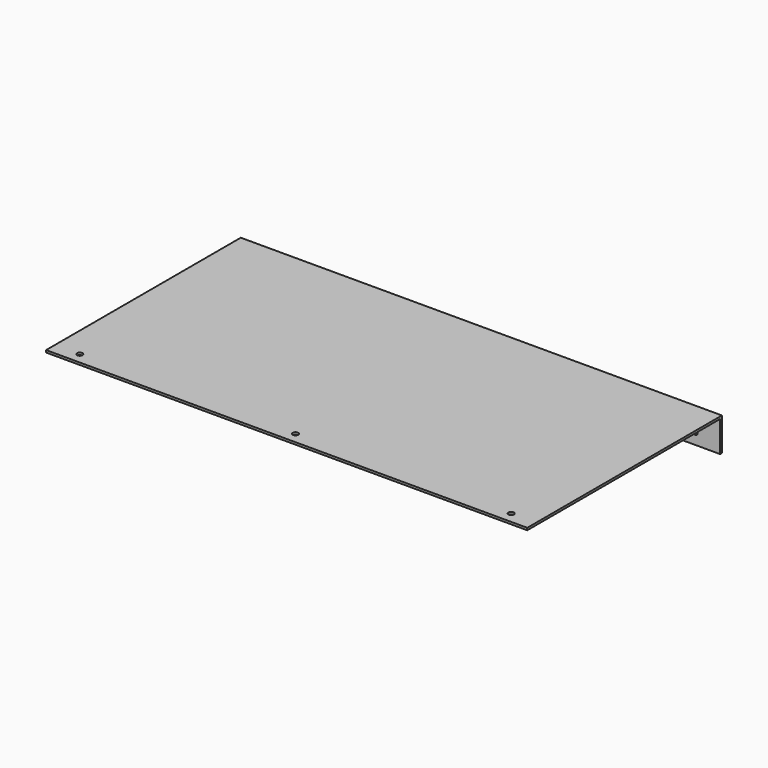
from build123d import *

# Parameters (mm, degrees)
F0_W     = 552.45
F0_H     = 279.4
F1_DEPTH = 19.05
F2_T     = -2.54
F3_R     = 2.5796875
F4_DEPTH = 2.54
F5_R     = 3.175
F6_DEPTH = 38.101


with BuildPart() as f1:
    # F0 (on Top) → F1 (new body, symmetric)
    with BuildSketch(Plane.XY):
        Rectangle(F0_W, F0_H)
    extrude(amount=F1_DEPTH, both=True)

    # F2
    f2_openings = [f1.faces().sort_by_distance(p)[0] for p in [
        (0, -139.7, 0),
        (-276.225, 0, 0),
        (0, 0, -19.05),
        (276.225, 0, 0),
    ]]
    offset(amount=F2_T, openings=f2_openings)

    # F3 (on face) → F4 (cut, through all)
    with BuildSketch(Plane(origin=(0, 139.7, 0), x_dir=(-1, 0, 0), z_dir=(0, 1, 0))):
        with Locations((-247.65, -6.35)):
            Circle(F3_R)
        with Locations((0, -6.35)):
            Circle(F3_R)
        with Locations((247.65, -6.35)):
            Circle(F3_R)
    extrude(amount=-F4_DEPTH, mode=Mode.SUBTRACT)

    # F5 (on face) → F6 (cut, through all)
    with BuildSketch(Plane.XY.offset(19.05)):
        with Locations((-247.65, -127)):
            Circle(F5_R)
        with Locations((0, -127)):
            Circle(F5_R)
        with Locations((247.65, -127)):
            Circle(F5_R)
    extrude(amount=-F6_DEPTH, mode=Mode.SUBTRACT)


solid = f1.part
